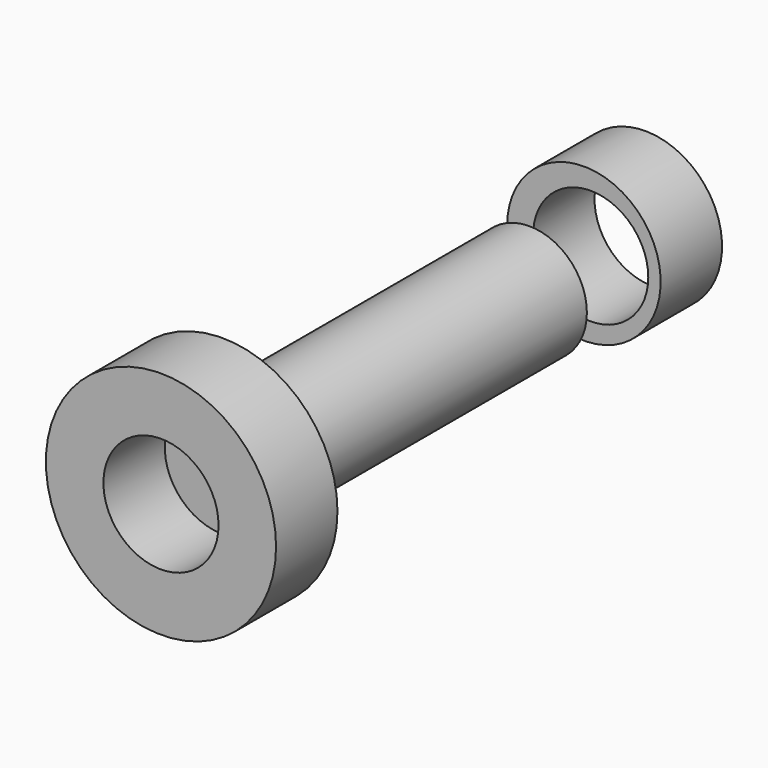
from build123d import *

# Parameters (mm, degrees)
F0_R     = 19.05
F1_DEPTH = 127
F3_R     = 25.4
F4_DEPTH = 25.4
F6_D     = 38.1
F7_R     = 38.1
F7_R_2   = 19.05
F8_DEPTH = 25.4


with BuildPart() as f1:
    # F0 (on Front) → F1 (new body)
    with BuildSketch(Plane.XZ):
        Circle(F0_R)
    extrude(amount=F1_DEPTH)


with BuildPart() as f4:
    # F3 (on offset) → F4 (new body)
    with BuildSketch(Plane(origin=(0, 25.4, 0), x_dir=(-1, 0, 0), z_dir=(0, 1, 0))):
        with Locations((2.2442061454, 0)):
            Circle(F3_R)
    extrude(amount=F4_DEPTH)

    # F6 (through all)
    with Locations(Plane(origin=(0, 50.8, 0), x_dir=(-1, 0, 0), z_dir=(0, 1, 0))):
        with Locations((0, 0)):
            Hole(F6_D / 2)


with BuildPart() as f8:
    # F7 (on face) → F8 (new body)
    with BuildSketch(Plane.XZ.offset(127)):
        Circle(F7_R)
        Circle(F7_R_2, mode=Mode.SUBTRACT)
    extrude(amount=F8_DEPTH)


solid = Compound([f1.part, f4.part, f8.part])
